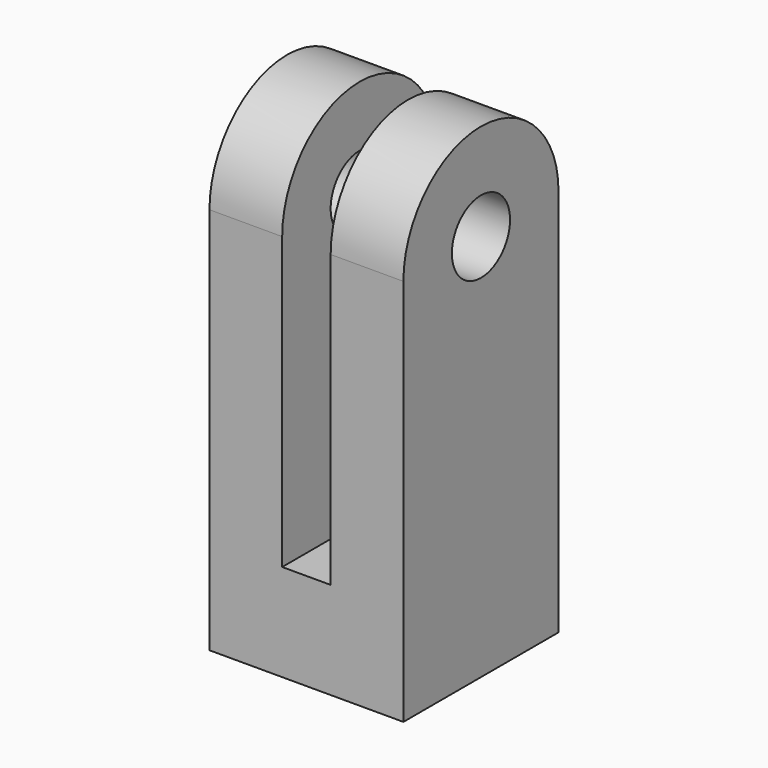
from build123d import *

# Parameters (mm, degrees)
SKETCH038_W              = 10
SKETCH038_H              = 85.035517
EXTRUDE034_DEPTH         = 50
SKETCH037_R              = 7.5
EXTRUDE033_DEPTH         = 20
CLONE003_PLACEMENT_ANGLE = 180


with BuildPart() as extrude036:
    # Sketch038 (on Face4 of Extrude033) → Extrude034 (new body)
    with BuildSketch(Plane.XZ.offset(20)):
        with Locations((0, 17.482242)):
            Rectangle(SKETCH038_W, SKETCH038_H)
    extrude(amount=-EXTRUDE034_DEPTH)


with BuildPart() as cut018:
    # Sketch037 → Extrude033 (new body, symmetric)
    with BuildSketch(Plane.YZ):
        with BuildLine():
            ThreePointArc((-20, 9e-06), (1.3e-05, -20), (20, 3.6e-05))
            Line((20, 80), (20, 3.6e-05))
            Line((-20, 80), (20, 80))
            Line((-20, 9e-06), (-20, 80))
        make_face()
        Circle(SKETCH037_R, mode=Mode.SUBTRACT)
    extrude(amount=EXTRUDE033_DEPTH, both=True)

    # Cut017: cut Extrude036
    add(extrude036.part, mode=Mode.SUBTRACT)


with BuildPart() as cut018_1:
    # Clone003 placement: moved
    add(cut018.part.moved(Location((0, 0, 560))).rotate(Axis((0, 0, 560), (0, 1, 0)), CLONE003_PLACEMENT_ANGLE))


solid = cut018_1.part
